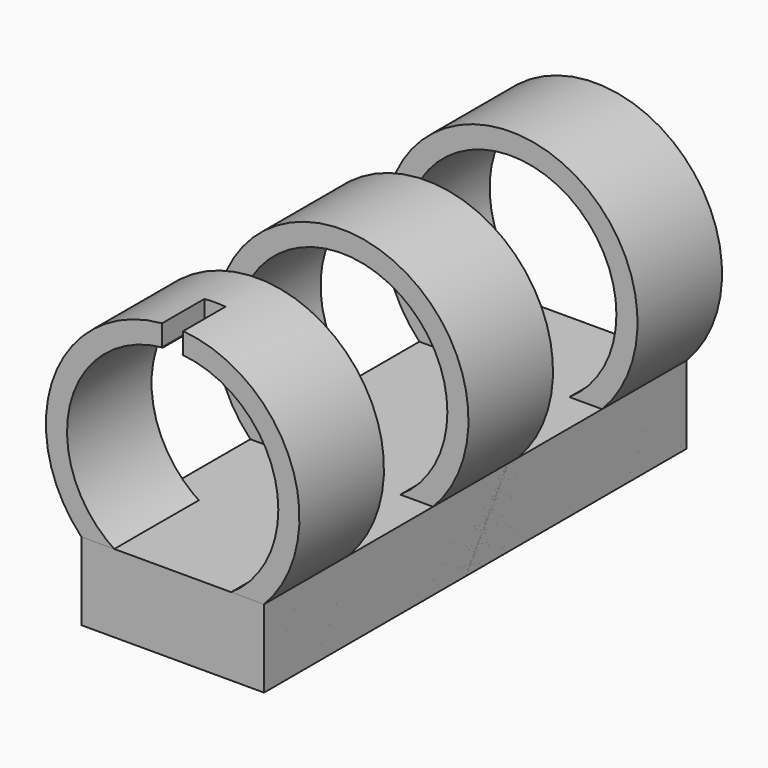
from build123d import *

# Parameters (mm, degrees)
F0_R          = 6
F1_DEPTH      = 30
F2_W          = 8.6483662619
F2_H          = 3.681
F3_DEPTH      = 30
F5_W          = 12
F5_H          = 5
F6_DEPTH      = 7.8405
F6_DEPTH_BACK = 25
F7_W          = 25
F7_H          = 3.681
F8_DEPTH      = 8.6483662619
F4_R          = 5
F9_DEPTH      = 25.001
F10_W         = 1
F10_H         = 1.021
F11_DEPTH     = 2.5


with BuildPart() as f1:
    # F0 (on Front) → F1 (new body)
    with BuildSketch(Plane.XZ):
        Circle(F0_R)
    extrude(amount=F1_DEPTH)

    # F2 (on face) → F3 (join, through all)
    with BuildSketch(Plane.XZ.offset(30)):
        with Locations((0, -6)):
            Rectangle(F2_W, F2_H)
    extrude(amount=-F3_DEPTH)

    # F5 (on Top) → F6 (cut, two sides)
    with BuildSketch(Plane.XY) as f6_sk:
        with Locations((0, -22.5)):
            Rectangle(F5_W, F5_H)
        with Locations((0, -2.5)):
            Rectangle(F5_W, F5_H)
        with Locations((0, -12.5)):
            Rectangle(F5_W, F5_H)
    extrude(amount=-F6_DEPTH, mode=Mode.SUBTRACT)
    extrude(f6_sk.sketch, amount=F6_DEPTH_BACK, mode=Mode.SUBTRACT)

    # F4 (on face) → F9 (cut, through all)
    with BuildSketch(Plane.XZ.offset(30)):
        Circle(F4_R)
    extrude(amount=-F9_DEPTH, mode=Mode.SUBTRACT)

    # F10 (on face) → F11 (cut, through all)
    with BuildSketch(Plane.XZ.offset(30)):
        with Locations((0, 5.4895)):
            Rectangle(F10_W, F10_H)
    extrude(amount=-F11_DEPTH, mode=Mode.SUBTRACT)


with BuildPart() as f8:
    # F7 (on face) → F8 (new body, through all)
    with BuildSketch(Plane(origin=(-4.324183131, 0, 0), x_dir=(0, -1, 0), z_dir=(-1, 0, 0))):
        with Locations((17.5, -6)):
            Rectangle(F7_W, F7_H)
    extrude(amount=-F8_DEPTH)


solid = Compound([f1.part, f8.part])
